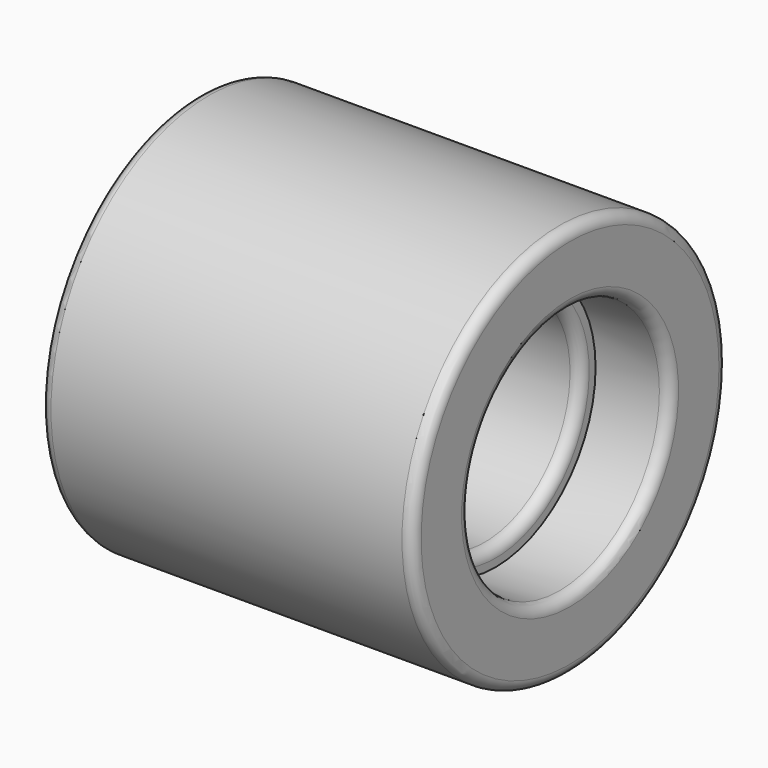
from build123d import *

# Parameters (mm, degrees)
F0_R     = 37
F1_DEPTH = 35
F4_R     = 2


with BuildPart() as f1:
    # F0 (on Right) → F1 (new body, symmetric)
    with BuildSketch(Plane.YZ):
        Circle(F0_R)
    extrude(amount=F1_DEPTH, both=True)

    # F2 (on Front) → F3 (revolve, cut)
    with BuildSketch(Plane.XZ):
        Polygon((21, 20), (0, 20), (-21, 20), (-21, 23.5), (-35, 23.5), (-35, 0), (0, 0), (35, 0), (35, 23.5), (21, 23.5), align=None)
    revolve(axis=Axis((17.5, 0, 0), (-1, 0, 0)), mode=Mode.SUBTRACT)

    # F4
    f4_edges = [f1.edges().sort_by_distance(p)[0] for p in [
        (-35, -37, 0),
        (0, 37, 0),
        (35, -37, 0),
        (35, 0, -23.5),
        (-35, 0, -23.5),
        (-21, 0, -20),
        (21, 0, -20),
    ]]
    fillet(f4_edges, radius=F4_R)


solid = f1.part
